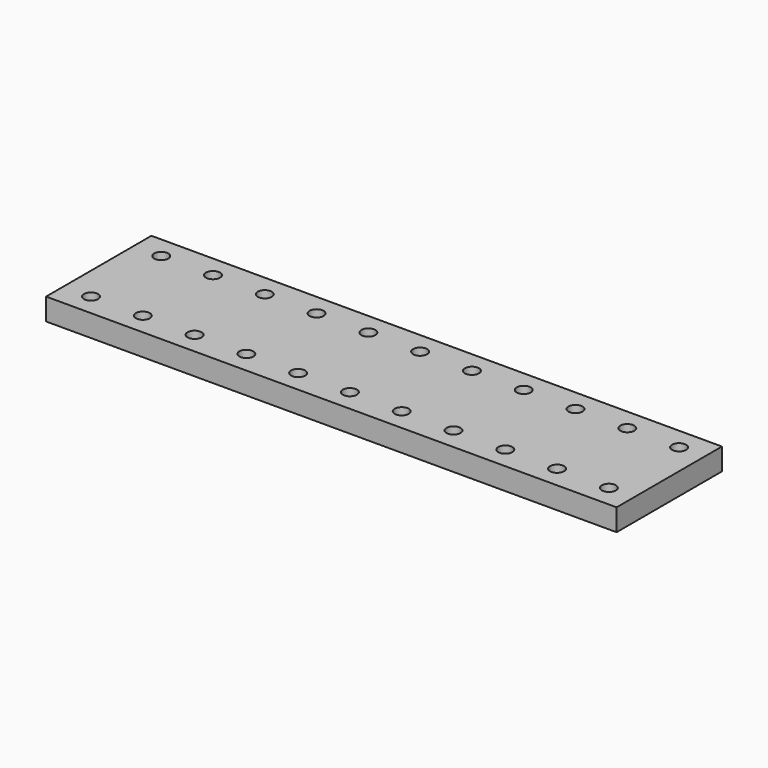
from build123d import *

# Parameters (mm, degrees)
F1_DEPTH = 6.35


with BuildPart() as f1:
    # F0 (on Top) → F1 (new body)
    with BuildSketch(Plane.XY):
        with BuildLine():
            Line((82.55, 12.7), (82.55, 19.05))
            Line((82.55, 19.05), (-82.55, 19.05))
            Line((-82.55, 19.05), (-82.55, 12.7))
            Line((-82.55, 12.7), (-76.660159, 12.7))
            ThreePointArc((-76.660159, 12.7), (-74.628159, 14.732), (-72.596159, 12.7))
            Line((-72.596159, 12.7), (-61.674159, 12.7))
            ThreePointArc((-61.674159, 12.7), (-59.642159, 14.732), (-57.610159, 12.7))
            Line((-57.610159, 12.7), (-46.688159, 12.7))
            ThreePointArc((-46.688159, 12.7), (-44.656159, 14.732), (-42.624159, 12.7))
            Line((-42.624159, 12.7), (-31.702159, 12.7))
            ThreePointArc((-31.702159, 12.7), (-29.670159, 14.732), (-27.638159, 12.7))
            Line((-27.638159, 12.7), (-16.716159, 12.7))
            ThreePointArc((-16.716159, 12.7), (-14.684159, 14.732), (-12.652159, 12.7))
            Line((-12.652159, 12.7), (-1.730159, 12.7))
            ThreePointArc((-1.730159, 12.7), (0.301841, 14.732), (2.333841, 12.7))
            Line((2.333841, 12.7), (13.255841, 12.7))
            ThreePointArc((13.255841, 12.7), (15.287841, 14.732), (17.319841, 12.7))
            Line((17.319841, 12.7), (28.241841, 12.7))
            ThreePointArc((28.241841, 12.7), (30.273841, 14.732), (32.305841, 12.7))
            Line((32.305841, 12.7), (43.227841, 12.7))
            ThreePointArc((43.227841, 12.7), (45.259841, 14.732), (47.291841, 12.7))
            Line((47.291841, 12.7), (58.213841, 12.7))
            ThreePointArc((58.213841, 12.7), (60.245841, 14.732), (62.277841, 12.7))
            Line((62.277841, 12.7), (73.199841, 12.7))
            ThreePointArc((73.199841, 12.7), (75.231841, 14.732), (77.263841, 12.7))
            Line((77.263841, 12.7), (82.55, 12.7))
        make_face()
        with BuildLine():
            Line((82.55, -12.7), (82.55, 12.7))
            Line((82.55, 12.7), (77.263841, 12.7))
            ThreePointArc((77.263841, 12.7), (75.231841, 10.668), (73.199841, 12.7))
            Line((73.199841, 12.7), (62.277841, 12.7))
            ThreePointArc((62.277841, 12.7), (60.245841, 10.668), (58.213841, 12.7))
            Line((58.213841, 12.7), (47.291841, 12.7))
            ThreePointArc((47.291841, 12.7), (45.259841, 10.668), (43.227841, 12.7))
            Line((43.227841, 12.7), (32.305841, 12.7))
            ThreePointArc((32.305841, 12.7), (30.273841, 10.668), (28.241841, 12.7))
            Line((28.241841, 12.7), (17.319841, 12.7))
            ThreePointArc((17.319841, 12.7), (15.287841, 10.668), (13.255841, 12.7))
            Line((13.255841, 12.7), (2.333841, 12.7))
            ThreePointArc((2.333841, 12.7), (0.301841, 10.668), (-1.730159, 12.7))
            Line((-1.730159, 12.7), (-12.652159, 12.7))
            ThreePointArc((-12.652159, 12.7), (-14.684159, 10.668), (-16.716159, 12.7))
            Line((-16.716159, 12.7), (-27.638159, 12.7))
            ThreePointArc((-27.638159, 12.7), (-29.670159, 10.668), (-31.702159, 12.7))
            Line((-31.702159, 12.7), (-42.624159, 12.7))
            ThreePointArc((-42.624159, 12.7), (-44.656159, 10.668), (-46.688159, 12.7))
            Line((-46.688159, 12.7), (-57.610159, 12.7))
            ThreePointArc((-57.610159, 12.7), (-59.642159, 10.668), (-61.674159, 12.7))
            Line((-61.674159, 12.7), (-72.596159, 12.7))
            ThreePointArc((-72.596159, 12.7), (-74.628159, 10.668), (-76.660159, 12.7))
            Line((-76.660159, 12.7), (-82.55, 12.7))
            Line((-82.55, 12.7), (-82.55, -12.7))
            Line((-82.55, -12.7), (-76.660159, -12.7))
            ThreePointArc((-76.660159, -12.7), (-74.628159, -10.668), (-72.596159, -12.7))
            Line((-72.596159, -12.7), (-61.674159, -12.7))
            ThreePointArc((-61.674159, -12.7), (-59.642159, -10.668), (-57.610159, -12.7))
            Line((-57.610159, -12.7), (-46.688159, -12.7))
            ThreePointArc((-46.688159, -12.7), (-44.656159, -10.668), (-42.624159, -12.7))
            Line((-42.624159, -12.7), (-31.702159, -12.7))
            ThreePointArc((-31.702159, -12.7), (-29.670159, -10.668), (-27.638159, -12.7))
            Line((-27.638159, -12.7), (-16.716159, -12.7))
            ThreePointArc((-16.716159, -12.7), (-14.684159, -10.668), (-12.652159, -12.7))
            Line((-12.652159, -12.7), (-1.730159, -12.7))
            ThreePointArc((-1.730159, -12.7), (0.301841, -10.668), (2.333841, -12.7))
            Line((2.333841, -12.7), (13.255841, -12.7))
            ThreePointArc((13.255841, -12.7), (15.287841, -10.668), (17.319841, -12.7))
            Line((17.319841, -12.7), (28.241841, -12.7))
            ThreePointArc((28.241841, -12.7), (30.273841, -10.668), (32.305841, -12.7))
            Line((32.305841, -12.7), (43.227841, -12.7))
            ThreePointArc((43.227841, -12.7), (45.259841, -10.668), (47.291841, -12.7))
            Line((47.291841, -12.7), (58.213841, -12.7))
            ThreePointArc((58.213841, -12.7), (60.245841, -10.668), (62.277841, -12.7))
            Line((62.277841, -12.7), (73.199841, -12.7))
            ThreePointArc((73.199841, -12.7), (75.231841, -10.668), (77.263841, -12.7))
            Line((77.263841, -12.7), (82.55, -12.7))
        make_face()
        with BuildLine():
            Line((82.55, -19.05), (82.55, -12.7))
            Line((82.55, -12.7), (77.263841, -12.7))
            ThreePointArc((77.263841, -12.7), (75.231841, -14.732), (73.199841, -12.7))
            Line((73.199841, -12.7), (62.277841, -12.7))
            ThreePointArc((62.277841, -12.7), (60.245841, -14.732), (58.213841, -12.7))
            Line((58.213841, -12.7), (47.291841, -12.7))
            ThreePointArc((47.291841, -12.7), (45.259841, -14.732), (43.227841, -12.7))
            Line((43.227841, -12.7), (32.305841, -12.7))
            ThreePointArc((32.305841, -12.7), (30.273841, -14.732), (28.241841, -12.7))
            Line((28.241841, -12.7), (17.319841, -12.7))
            ThreePointArc((17.319841, -12.7), (15.287841, -14.732), (13.255841, -12.7))
            Line((13.255841, -12.7), (2.333841, -12.7))
            ThreePointArc((2.333841, -12.7), (0.301841, -14.732), (-1.730159, -12.7))
            Line((-1.730159, -12.7), (-12.652159, -12.7))
            ThreePointArc((-12.652159, -12.7), (-14.684159, -14.732), (-16.716159, -12.7))
            Line((-16.716159, -12.7), (-27.638159, -12.7))
            ThreePointArc((-27.638159, -12.7), (-29.670159, -14.732), (-31.702159, -12.7))
            Line((-31.702159, -12.7), (-42.624159, -12.7))
            ThreePointArc((-42.624159, -12.7), (-44.656159, -14.732), (-46.688159, -12.7))
            Line((-46.688159, -12.7), (-57.610159, -12.7))
            ThreePointArc((-57.610159, -12.7), (-59.642159, -14.732), (-61.674159, -12.7))
            Line((-61.674159, -12.7), (-72.596159, -12.7))
            ThreePointArc((-72.596159, -12.7), (-74.628159, -14.732), (-76.660159, -12.7))
            Line((-76.660159, -12.7), (-82.55, -12.7))
            Line((-82.55, -12.7), (-82.55, -19.05))
            Line((-82.55, -19.05), (82.55, -19.05))
        make_face()
    extrude(amount=F1_DEPTH)


solid = f1.part
